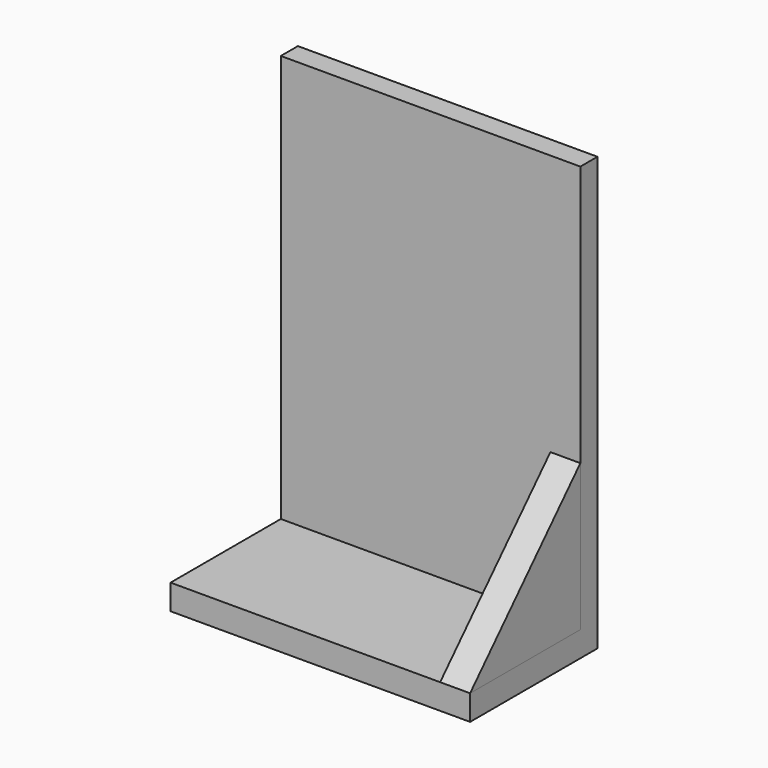
from build123d import *

# Parameters (mm, degrees)
F1_DEPTH = 50
F3_DEPTH = 5


with BuildPart() as f1:
    # F0 (on Right) → F1 (new body)
    with BuildSketch(Plane.YZ):
        Polygon((3.564021, 43.578271), (0, 43.578271), (0, -24.462152), (-23.004144, -24.462152), (-23.004144, -28.674178), (3.564021, -28.674178), align=None)
    extrude(amount=F1_DEPTH)


with BuildPart() as f3:
    # F2 (on face) → F3 (new body)
    with BuildSketch(Plane.YZ.offset(50)):
        Polygon((0, -24.462152), (0, 0), (-23.004144, -24.462152), align=None)
    extrude(amount=-F3_DEPTH)


solid = Compound([f1.part, f3.part])
